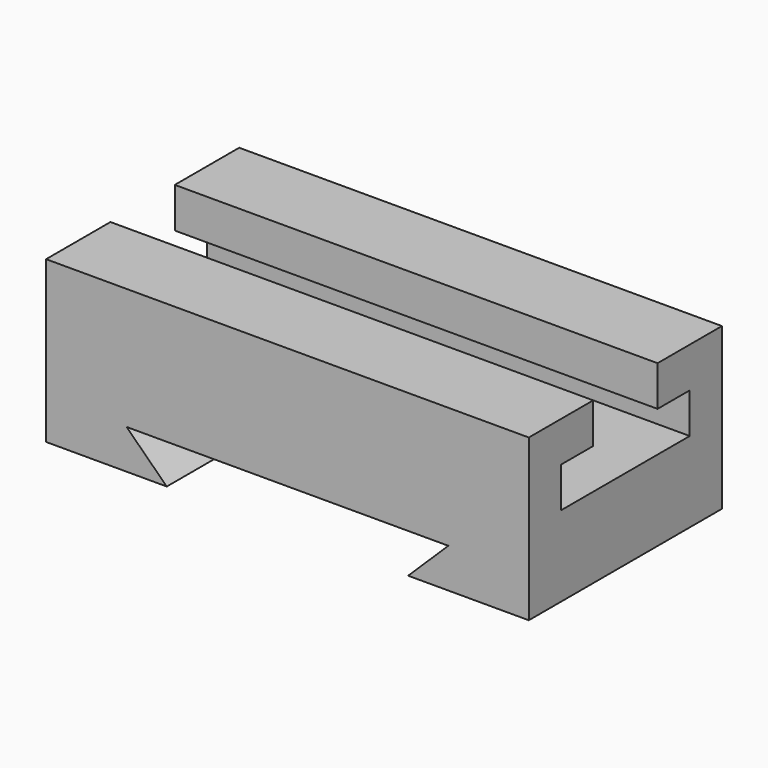
from build123d import *

# Parameters (mm, degrees)
F1_DEPTH = 152.4
F4_DEPTH = 76.2


with BuildPart() as f1:
    # F0 (on Right) → F1 (new body)
    with BuildSketch(Plane.YZ):
        Polygon((-41.44403, 50.8), (-41.44403, 0), (34.75597, 0), (34.75597, 50.8), (9.35597, 50.8), (9.35597, 38.1), (22.05597, 38.1), (22.05597, 25.4), (-28.74403, 25.4), (-28.74403, 38.1), (-16.04403, 38.1), (-16.04403, 50.8), align=None)
    extrude(amount=F1_DEPTH)

    # F3 (on face) → F4 (cut, through all)
    with BuildSketch(Plane(origin=(0, 34.75597, 0), x_dir=(-1, 0, 0), z_dir=(0, 1, 0))):
        Polygon((-127, 12.443408), (-114.3, 0), (-38.1, 0), (-25.4, 12.443408), align=None)
    extrude(amount=-F4_DEPTH, mode=Mode.SUBTRACT)


solid = f1.part
